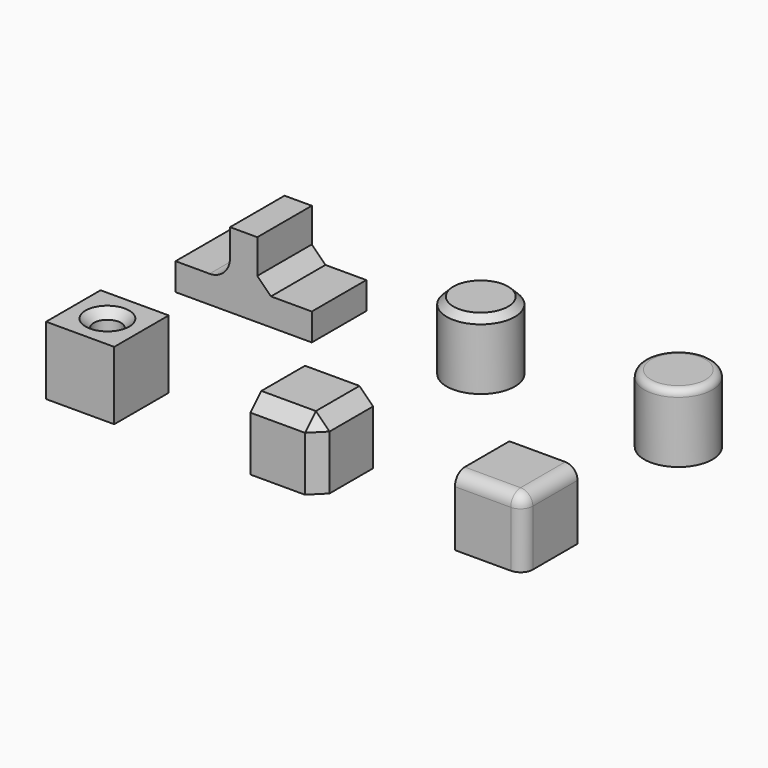
from build123d import *

# Parameters (mm, degrees)
BOX002_W          = 10
BOX002_H          = 10
BOX002_DEPTH      = 10
FILLET_R          = 1.8
BOX001_W          = 10
BOX001_H          = 10
BOX001_DEPTH      = 10
CHAMFER_SIZE      = 2
CYLINDER_R        = 2
CYLINDER_DEPTH    = 12
BOX_W             = 10
BOX_H             = 10
BOX_DEPTH         = 10
CHAMFER001_SIZE   = 1.2
CYLINDER002_R     = 5
CYLINDER002_DEPTH = 10
FILLET001_R       = 1
CYLINDER001_R     = 5
CYLINDER001_DEPTH = 10
CHAMFER002_SIZE   = 1
BOX005_W          = 10
BOX005_H          = 10
BOX005_DEPTH      = 10
BOX004_W          = 10
BOX004_H          = 10
BOX004_DEPTH      = 10
BOX003_W          = 20
BOX003_H          = 10
BOX003_DEPTH      = 11
CHAMFER003_SIZE   = 2
FILLET002_R       = 3


with BuildPart() as fillet_body:
    # Box002 → Box002 (new body)
    with BuildSketch(Plane(origin=(60, 0, 0), x_dir=(1, 0, 0), z_dir=(0, 0, 1))):
        with Locations((5, 5)):
            Rectangle(BOX002_W, BOX002_H)
    extrude(amount=BOX002_DEPTH)

    # Fillet
    fillet_edges = [fillet_body.edges().sort_by_distance(p)[0] for p in [
        (70, 0, 5),
        (70, 5, 10),
        (65, 0, 10),
    ]]
    fillet(fillet_edges, radius=FILLET_R)


with BuildPart() as chamfer_body:
    # Box001 → Box001 (new body)
    with BuildSketch(Plane(origin=(30, 0, 0), x_dir=(1, 0, 0), z_dir=(0, 0, 1))):
        with Locations((5, 5)):
            Rectangle(BOX001_W, BOX001_H)
    extrude(amount=BOX001_DEPTH)

    # Chamfer
    chamfer_edges = [chamfer_body.edges().sort_by_distance(p)[0] for p in [
        (40, 0, 5),
        (40, 5, 10),
        (35, 0, 10),
    ]]
    chamfer(chamfer_edges, length=CHAMFER_SIZE)


with BuildPart() as cilindre:
    # Cylinder → Cylinder (new body)
    with BuildSketch(Plane(origin=(5, 5, -1), x_dir=(1, 0, 0), z_dir=(0, 0, 1))):
        Circle(CYLINDER_R)
    extrude(amount=CYLINDER_DEPTH)


with BuildPart() as chamfer001:
    # Box → Box (new body)
    with BuildSketch(Plane.XY):
        with Locations((5, 5)):
            Rectangle(BOX_W, BOX_H)
    extrude(amount=BOX_DEPTH)

    # Cut: cut Cilindre
    add(cilindre.part, mode=Mode.SUBTRACT)

    # Chamfer001
    chamfer001_edges = [chamfer001.edges().sort_by_distance(p)[0] for p in [
        (3, 5, 10),
    ]]
    chamfer(chamfer001_edges, length=CHAMFER001_SIZE)


with BuildPart() as fillet001:
    # Cylinder002 → Cylinder002 (new body)
    with BuildSketch(Plane(origin=(64, 36, 0), x_dir=(1, 0, 0), z_dir=(0, 0, 1))):
        Circle(CYLINDER002_R)
    extrude(amount=CYLINDER002_DEPTH)

    # Fillet001
    fillet001_edges = [fillet001.edges().sort_by_distance(p)[0] for p in [
        (59, 36, 10),
    ]]
    fillet(fillet001_edges, radius=FILLET001_R)


with BuildPart() as chamfer002:
    # Cylinder001 → Cylinder001 (new body)
    with BuildSketch(Plane(origin=(35, 36, 0), x_dir=(1, 0, 0), z_dir=(0, 0, 1))):
        Circle(CYLINDER001_R)
    extrude(amount=CYLINDER001_DEPTH)

    # Chamfer002
    chamfer002_edges = [chamfer002.edges().sort_by_distance(p)[0] for p in [
        (30, 36, 10),
    ]]
    chamfer(chamfer002_edges, length=CHAMFER002_SIZE)


with BuildPart() as cub005:
    # Box005 → Box005 (new body)
    with BuildSketch(Plane(origin=(7, 30, 4), x_dir=(1, 0, 0), z_dir=(0, 0, 1))):
        with Locations((5, 5)):
            Rectangle(BOX005_W, BOX005_H)
    extrude(amount=BOX005_DEPTH)


with BuildPart() as cub004:
    # Box004 → Box004 (new body)
    with BuildSketch(Plane(origin=(-7, 30, 4), x_dir=(1, 0, 0), z_dir=(0, 0, 1))):
        with Locations((5, 5)):
            Rectangle(BOX004_W, BOX004_H)
    extrude(amount=BOX004_DEPTH)


with BuildPart() as fillet002:
    # Box003 → Box003 (new body)
    with BuildSketch(Plane(origin=(-5, 30, 0), x_dir=(1, 0, 0), z_dir=(0, 0, 1))):
        with Locations((10, 5)):
            Rectangle(BOX003_W, BOX003_H)
    extrude(amount=BOX003_DEPTH)

    # Cut001: cut Cub004
    add(cub004.part, mode=Mode.SUBTRACT)

    # Cut002: cut Cub005
    add(cub005.part, mode=Mode.SUBTRACT)

    # Chamfer003
    chamfer003_edges = [fillet002.edges().sort_by_distance(p)[0] for p in [
        (7, 35, 4),
    ]]
    chamfer(chamfer003_edges, length=CHAMFER003_SIZE)

    # Fillet002
    fillet002_edges = [fillet002.edges().sort_by_distance(p)[0] for p in [
        (3, 35, 4),
    ]]
    fillet(fillet002_edges, radius=FILLET002_R)


solid = Compound([fillet_body.part, chamfer_body.part, chamfer001.part, fillet001.part, chamfer002.part, fillet002.part])
